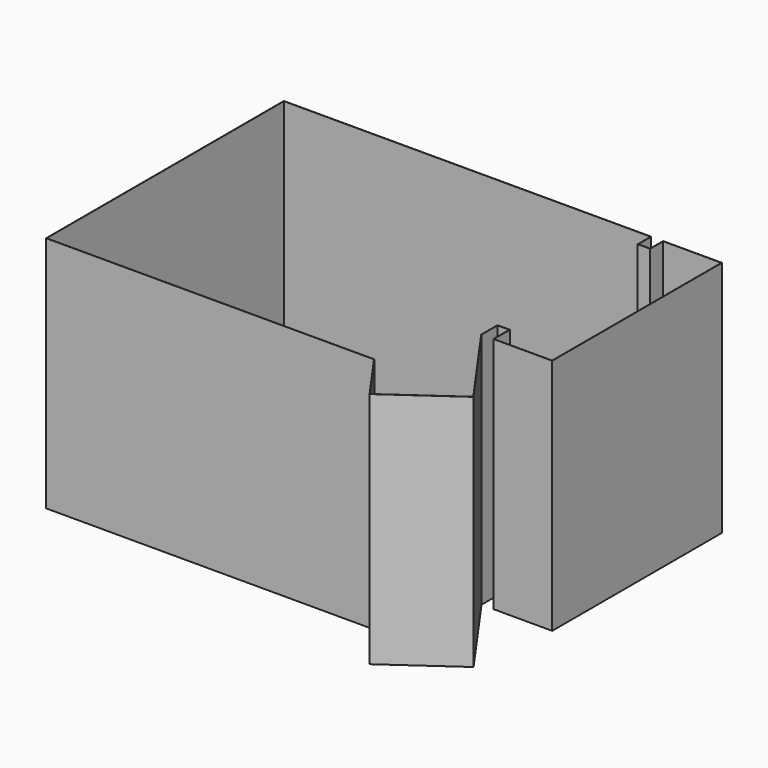
from build123d import *

# Parameters (mm, degrees)
F1_DEPTH = 2413
F2_T     = -2.54


with BuildPart() as f1:
    # F0 (on Top) → F1 (new body)
    with BuildSketch(Plane.XY):
        Polygon((0, 2152.65), (-3727.45, 2152.65), (-3727.45, -863.6), (-400.05, -863.6), (-55.1614308014, -1350.7770569682), (618.5940735162, -873.8035038212), (0, 0), (0, 203.2), (120.65, 203.2), (120.65, 0), (717.55, 0), (717.55, 2152.65), (120.65, 2152.65), (120.65, 1987.55), (0, 1987.55), align=None)
    extrude(amount=F1_DEPTH)

    # F2
    f2_openings = [f1.faces().sort_by_distance(p)[0] for p in [
        (-1533.609326, 637.702841, 2413),
    ]]
    offset(amount=F2_T, openings=f2_openings, kind=Kind.INTERSECTION)


solid = f1.part
